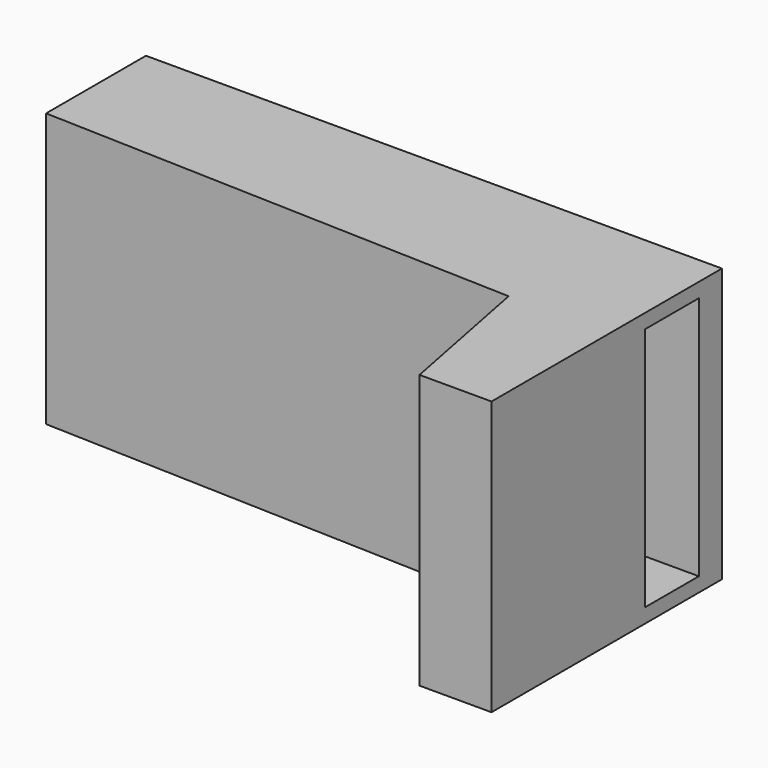
from build123d import *

# Parameters (mm, degrees)
PAD_DEPTH    = 19
SKETCH001_W  = 4.666667
SKETCH001_H  = 17
POCKET_DEPTH = 40.001


with BuildPart() as part:
    # Sketch → Pad (new body)
    with BuildSketch(Plane.XY):
        Polygon((0, 0), (0, -10), (0, -20), (-5, -20), (-7, -9.766667), (-40, -8.666667), (-40, 0), align=None)
    extrude(amount=PAD_DEPTH)

    # Sketch001 → Pocket (cut, through all)
    with BuildSketch(Plane(origin=(-40, 0, 0), x_dir=(0, -1, 0), z_dir=(-1, 0, 0))):
        with Locations((4.333334, 9.5)):
            Rectangle(SKETCH001_W, SKETCH001_H)
    extrude(amount=-POCKET_DEPTH, mode=Mode.SUBTRACT)


solid = part.part
